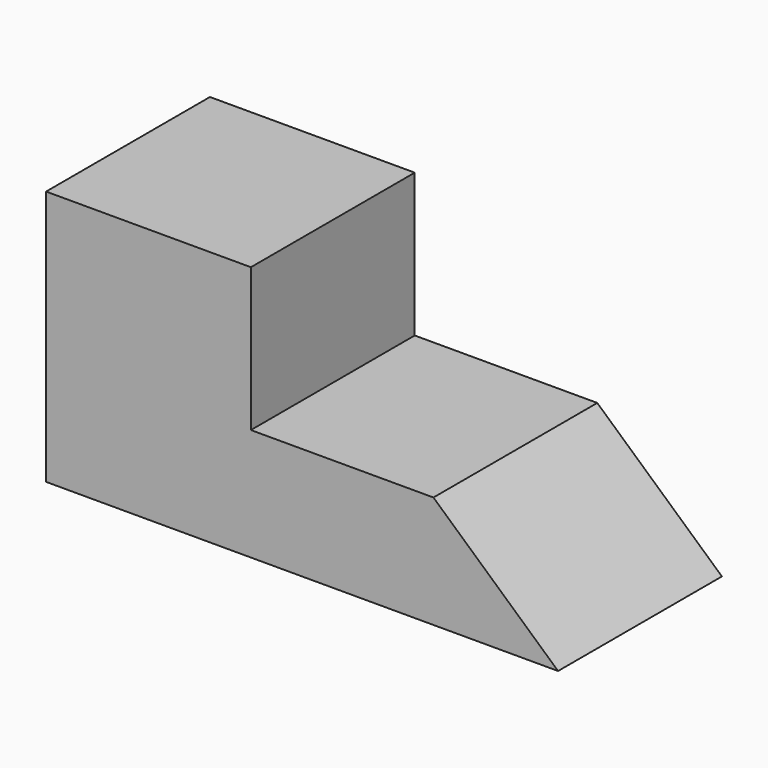
from build123d import *

# Parameters (mm, degrees)
PAD_DEPTH = 50


with BuildPart() as part:
    # Sketch → Pad (new body)
    with BuildSketch(Plane.XZ):
        Polygon((0, 62.4), (50, 62.4), (50, 27.4), (94.569217, 27.4), (125, 0), (0, 0), align=None)
    extrude(amount=PAD_DEPTH)


solid = part.part
